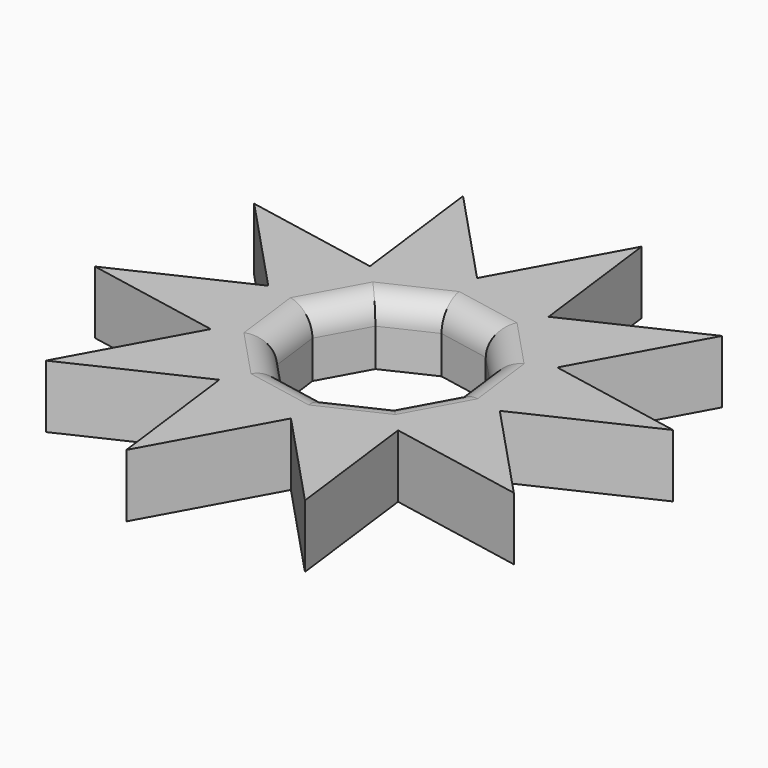
from build123d import *

# Parameters (mm, degrees)
F1_DEPTH = 6.35
F2_R     = 2.54


with BuildPart() as f1:
    # F0 (on Top) → F1 (new body)
    with BuildSketch(Plane.XY):
        Polygon((-9.6072673019, 10.2393246088), (-23.3982338171, 12.8761021934), (-13.7909665152, 2.6367775846), (-8.9373300414, 4.9182333953), align=None)
        Polygon((-8.9373300414, 4.9182333953), (-13.7909665152, 2.6367775846), (-10.1213169449, -1.2742963942), (-8.5232860441, 1.629618168), align=None)
        Polygon((-13.7909665152, 2.6367775846), (-26.4979517727, -3.3361512716), (-12.7069852575, -5.9729288562), (-10.1213169449, -1.2742963942), align=None)
        Polygon((-12.7069852575, -5.9729288562), (-19.4763527833, -18.2741083425), (-6.7693675259, -12.3011794863), (-7.4393047864, -6.9800882727), align=None)
        Polygon((-6.7693675259, -12.3011794863), (-5.0154490076, -26.2319771406), (1.7539185182, -13.9307976543), (-1.9157310521, -10.0197236756), align=None)
        Polygon((1.7539185182, -13.9307976543), (11.3611858201, -24.1701222631), (9.6072673019, -10.2393246088), (4.3395868308, -9.2321651923), align=None)
        Polygon((9.6072673019, -10.2393246088), (23.3982338171, -12.8761021934), (13.7909665152, -2.6367775846), (8.9373300414, -4.9182333953), align=None)
        Polygon((13.7909665152, -2.6367775846), (26.4979517727, 3.3361512716), (12.7069852575, 5.9729288562), (10.1213169449, 1.2742963942), align=None)
        Polygon((12.7069852575, 5.9729288562), (19.4763527833, 18.2741083425), (6.7693675259, 12.3011794863), (7.4393047864, 6.9800882727), align=None)
        Polygon((6.7693675259, 12.3011794863), (5.0154490076, 26.2319771406), (-1.7539185182, 13.9307976543), (1.9157310521, 10.0197236756), align=None)
        Polygon((-1.7539185182, 13.9307976543), (-11.3611858201, 24.1701222631), (-9.6072673019, 10.2393246088), (-4.3395868308, 9.2321651923), align=None)
        Polygon((-4.3395868308, 9.2321651923), (-9.6072673019, 10.2393246088), (-8.9373300414, 4.9182333953), (-5.9376177316, 6.3282506301), align=None)
        Polygon((1.9157310521, 10.0197236756), (-1.7539185182, 13.9307976543), (-4.3395868308, 9.2321651923), (-1.0839812578, 8.6097064408), align=None)
        Polygon((7.4393047864, 6.9800882727), (6.7693675259, 12.3011794863), (1.9157310521, 10.0197236756), (4.1836992133, 7.6025470242), align=None)
        Polygon((10.1213169449, 1.2742963942), (12.7069852575, 5.9729288562), (7.4393047864, 6.9800882727), (7.8533487837, 3.6914730455), align=None)
        Polygon((4.3395868308, -9.2321651923), (9.6072673019, -10.2393246088), (8.9373300414, -4.9182333953), (5.9376177316, -6.3282506301), align=None)
        Polygon((-1.9157310521, -10.0197236756), (1.7539185182, -13.9307976543), (4.3395868308, -9.2321651923), (1.0839812578, -8.6097064408), align=None)
        Polygon((-7.4393047864, -6.9800882727), (-6.7693675259, -12.3011794863), (-1.9157310521, -10.0197236756), (-4.1836992133, -7.6025470242), align=None)
        Polygon((-10.1213169449, -1.2742963942), (-12.7069852575, -5.9729288562), (-7.4393047864, -6.9800882727), (-7.8533487837, -3.6914730455), align=None)
        Polygon((-4.1836992133, -7.6025470242), (-1.9157310521, -10.0197236756), (1.0839812578, -8.6097064408), align=None)
        Polygon((1.0839812578, -8.6097064408), (4.3395868308, -9.2321651923), (5.9376177316, -6.3282506301), align=None)
        Polygon((5.9376177316, -6.3282506301), (8.9373300414, -4.9182333953), (8.5232860441, -1.629618168), align=None)
        Polygon((7.8533487837, 3.6914730455), (7.4393047864, 6.9800882727), (4.1836992133, 7.6025470242), align=None)
        Polygon((8.9373300414, -4.9182333953), (13.7909665152, -2.6367775846), (10.1213169449, 1.2742963942), (8.5232860441, -1.629618168), align=None)
        Polygon((8.5232860441, -1.629618168), (10.1213169449, 1.2742963942), (7.8533487837, 3.6914730455), align=None)
        Polygon((4.1836992133, 7.6025470242), (1.9157310521, 10.0197236756), (-1.0839812578, 8.6097064408), align=None)
        Polygon((-1.0839812578, 8.6097064408), (-4.3395868308, 9.2321651923), (-5.9376177316, 6.3282506301), align=None)
        Polygon((-8.5232860441, 1.629618168), (-10.1213169449, -1.2742963942), (-7.8533487837, -3.6914730455), align=None)
        Polygon((-7.8533487837, -3.6914730455), (-7.4393047864, -6.9800882727), (-4.1836992133, -7.6025470242), align=None)
        Polygon((-5.9376177316, 6.3282506301), (-8.9373300414, 4.9182333953), (-8.5232860441, 1.629618168), align=None)
    extrude(amount=F1_DEPTH)

    # F2
    f2_edges = [f1.edges().sort_by_distance(p)[0] for p in [
        (6.018524, 5.64701, 6.35),
        (8.188317, 1.030927, 6.35),
        (-1.549859, -8.106127, 6.35),
        (-6.018524, -5.64701, 6.35),
        (-8.188317, -1.030927, 6.35),
        (-3.510799, 7.468979, 6.35),
        (1.549859, 8.106127, 6.35),
        (3.510799, -7.468979, 6.35),
        (7.230452, -3.978934, 6.35),
        (-7.230452, 3.978934, 6.35),
    ]]
    fillet(f2_edges, radius=F2_R)


solid = f1.part
